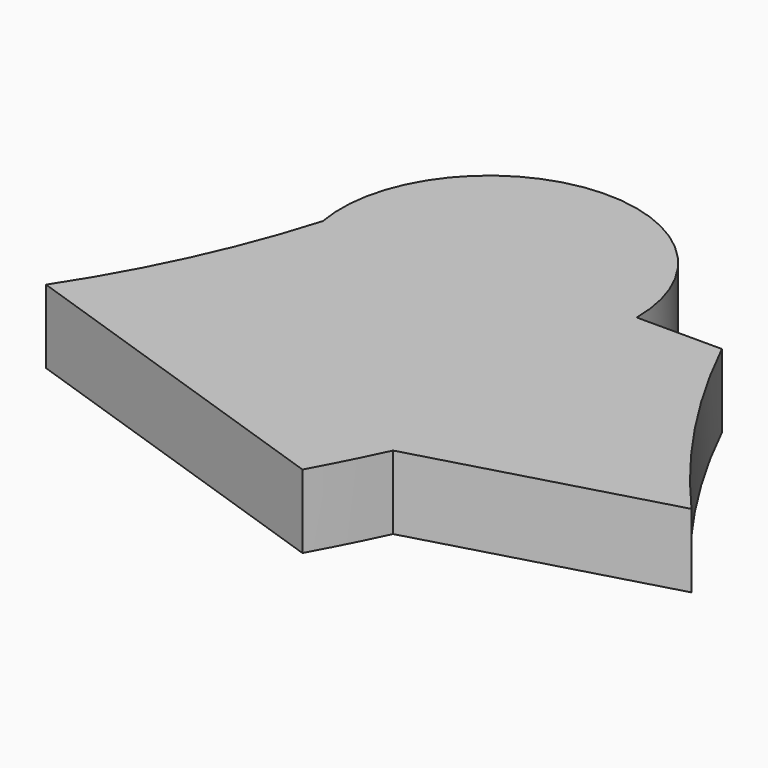
from build123d import *

# Parameters (mm, degrees)
F0_W     = 56.3245862722
F0_H     = 11.1567229033
F4_DEPTH = 11.1567229033


with BuildPart() as f2:
    # F2: sweep along a path in F1
    with BuildLine(Plane.XY) as f2_path:
        ThreePointArc((-23.6530322582, -43.8611544669), (-13.0490165439, -22.6514177551), (-6.0339360498, 0))
    # F0 (on Front) → F2 (sweep)
    with BuildSketch(Plane.XZ):
        with Locations((1.150039956, 5.5783614516)):
            Rectangle(F0_W, F0_H)
    sweep(path=f2_path.line)

    # F3: sweep along a path in F1
    with BuildLine(Plane.XY) as f3_path:
        ThreePointArc((-6.0339360498, 0), (4.5287353952, -22.758853007), (18.1018076837, -43.8611544669))
    # F0 (on Front) → F3 (sweep)
    with BuildSketch(Plane.XZ):
        with Locations((1.150039956, 5.5783614516)):
            Rectangle(F0_W, F0_H)
    sweep(path=f3_path.line)

    # F1 (on Top) → F4 (join, through all)
    with BuildSketch(Plane.XY):
        with BuildLine():
            ThreePointArc((16.3831246193, 0), (-19.3757451039, 18.0144591983), (-12.569889783, -21.4430855485))
            ThreePointArc((-12.569889783, -21.4430855485), (-8.8880028651, -10.8477045125), (-6.0339360498, 0))
            ThreePointArc((-6.0339360498, 0), (-1.7021386375, -10.3433289498), (3.2543247609, -20.402274877))
            ThreePointArc((3.2543247609, -20.402274877), (12.8173253821, -12.1307275738), (16.3831246193, 0))
        make_face()
    extrude(amount=F4_DEPTH)


solid = f2.part
